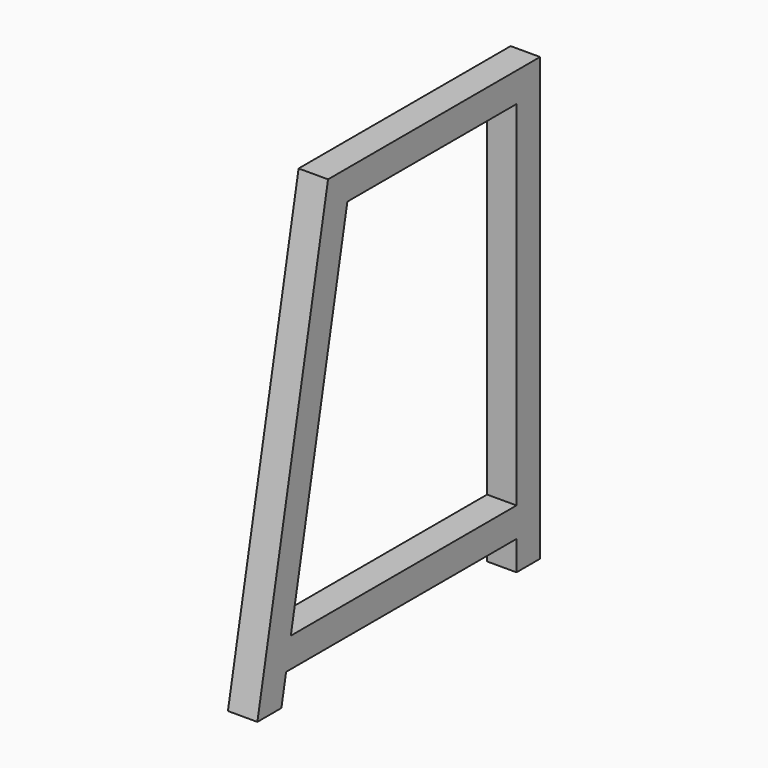
from build123d import *

# Parameters (mm, degrees)
F1_DEPTH = 50


with BuildPart() as f1:
    # F0 (on Right) → F1 (new body)
    with BuildSketch(Plane.YZ):
        Polygon((-50, -750), (0, -750), (0, 0), (-450, 0), (-600, -750), (-549.009805, -750), (-539.009805, -700), (-50, -700), align=None)
        Polygon((-50, -50), (-50, -650), (-529.009805, -650), (-409.009805, -50), align=None, mode=Mode.SUBTRACT)
    extrude(amount=F1_DEPTH)


solid = f1.part
